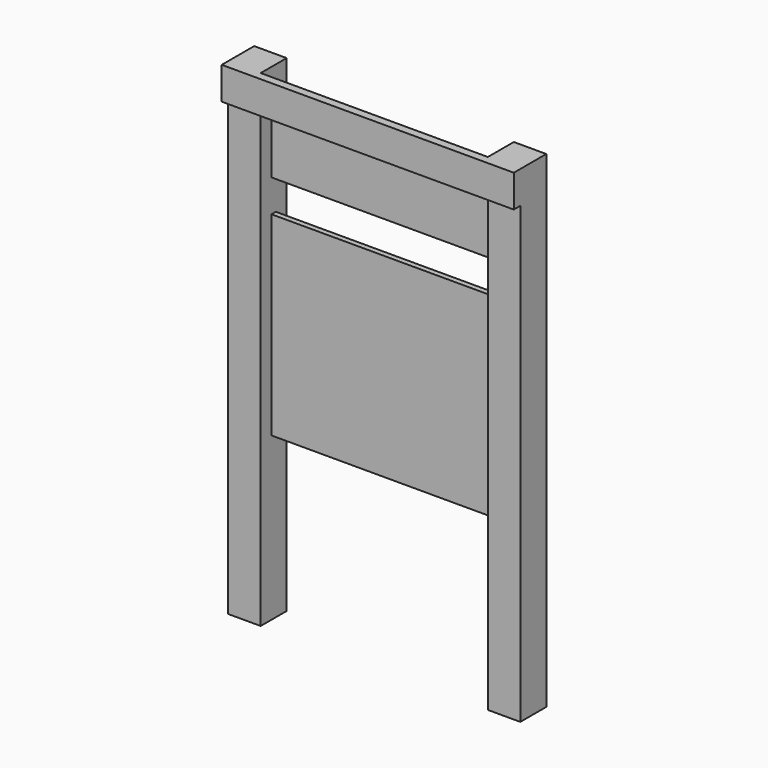
from build123d import *

# Parameters (mm, degrees)
F0_W     = 152.4
F0_H     = 152.4
F1_DEPTH = 2286
F2_W     = 25.4
F2_H     = 914.4
F2_H_2   = 304.8
F3_DEPTH = 533.4
F5_W     = 1219.2
F5_H     = 152.4
F5_W_2   = 152.4
F6_DEPTH = 38.1


with BuildPart() as f1:
    # F0 (on Top) → F1 (new body)
    with BuildSketch(Plane.XY):
        with Locations((76.2, -76.2)):
            Rectangle(F0_W, F0_H)
    extrude(amount=F1_DEPTH)

    # F2 (on face) → F3 (join)
    with BuildSketch(Plane.YZ.offset(152.4)):
        with Locations((-76.2, 1219.2)):
            Rectangle(F2_W, F2_H)
        with Locations((-76.2, 1981.2)):
            Rectangle(F2_W, F2_H_2)
    extrude(amount=F3_DEPTH)

    # F4: F1 across face


with BuildPart() as f1_1:
    add(f1.part)
    add(f1.part.mirror(Plane(origin=(685.8, -76.2, 1219.2), x_dir=(0, 1, 0), z_dir=(1, 0, 0))))

    # F5 (on face) → F6 (join)
    with BuildSketch(Plane.XZ.offset(152.4)):
        with Locations((762, 2209.8)):
            Rectangle(F5_W, F5_H)
        with Locations((76.2, 2209.8)):
            Rectangle(F5_W_2, F5_H)
    extrude(amount=F6_DEPTH)


solid = f1_1.part
